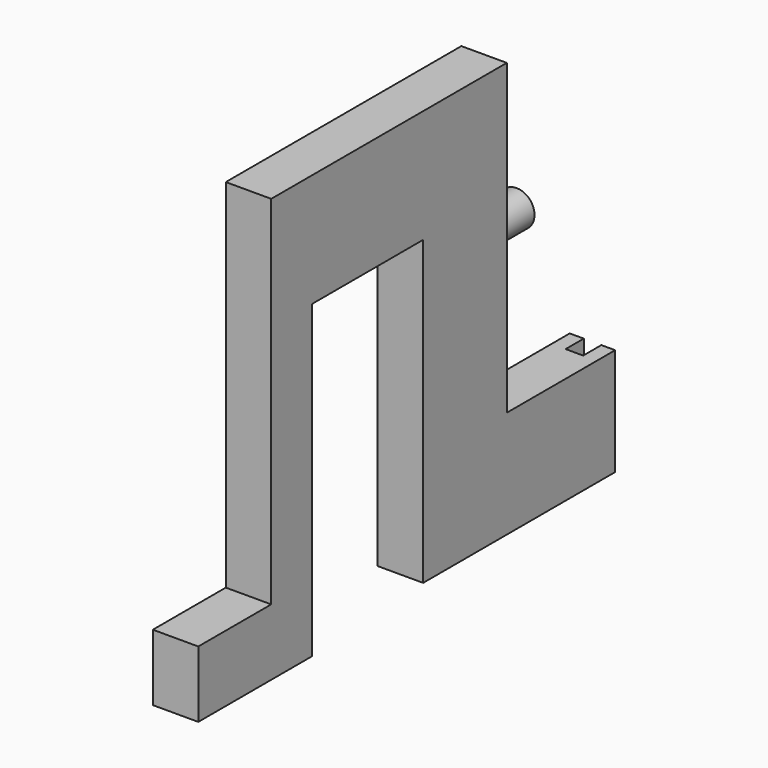
from build123d import *

# Parameters (mm, degrees)
F1_DEPTH = 20
F2_W     = 7.7429511584
F2_H     = 47.2369704668
F3_DEPTH = 10
F4_R     = 7.8502979612
F4_R_2   = 3.6441715019
F5_DEPTH = 17


with BuildPart() as f1:
    # F0 (on Right) → F1 (new body)
    with BuildSketch(Plane.YZ):
        Polygon((-41.4293780923, -31.1796526851), (-81.5630704165, -31.1796526851), (-81.5630704165, -60.4142908512), (-18.9877006452, -60.4142908512), (-18.9877006452, 76.117331113), (42.1743764823, 76.117331113), (42.1743764823, -56.8378705173), (147.8243358508, -56.8378705173), (147.8243358508, -9.6009000506), (88.1971307173, -9.6009000506), (88.1971307173, 125.9854882991), (-41.4293780923, 125.9854882991), align=None)
    extrude(amount=F1_DEPTH)

    # F2 (on face) → F3 (cut)
    with BuildSketch(Plane(origin=(0, 147.8243358508, 0), x_dir=(-1, 0, 0), z_dir=(0, 1, 0))):
        with Locations((-10.0561461877, -33.2193852839)):
            Rectangle(F2_W, F2_H)
    extrude(amount=-F3_DEPTH, mode=Mode.SUBTRACT)

    # F4 (on face) → F5 (join)
    with BuildSketch(Plane(origin=(0, 88.1971307173, 0), x_dir=(-1, 0, 0), z_dir=(0, 1, 0))):
        with Locations((-10.7497964054, 59.6960298717)):
            Circle(F4_R)
        with Locations((-10.7497964054, 59.6960298717)):
            Circle(F4_R_2, mode=Mode.SUBTRACT)
    extrude(amount=F5_DEPTH)


solid = f1.part
